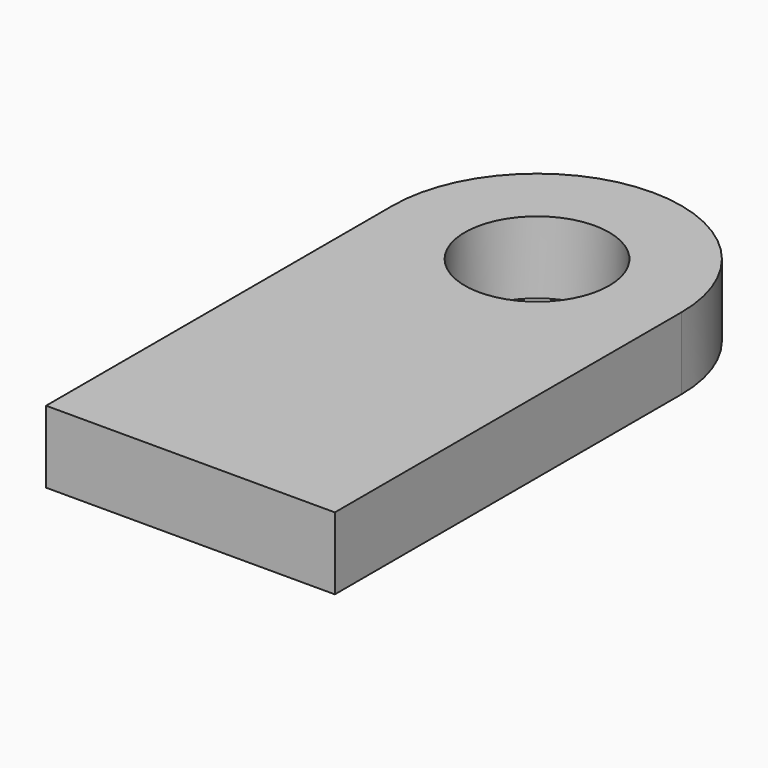
from build123d import *

# Parameters (mm, degrees)
F0_R     = 127
F1_DEPTH = 127


with BuildPart() as f1:
    # F0 (on Top) → F1 (new body)
    with BuildSketch(Plane.XY):
        with BuildLine():
            Line((-254, 0), (-254, -762))
            Line((-254, -762), (254, -762))
            Line((254, -762), (254, 0))
            ThreePointArc((254, 0), (0, 254), (-254, 0))
        make_face()
        Circle(F0_R, mode=Mode.SUBTRACT)
    extrude(amount=F1_DEPTH)


solid = f1.part
